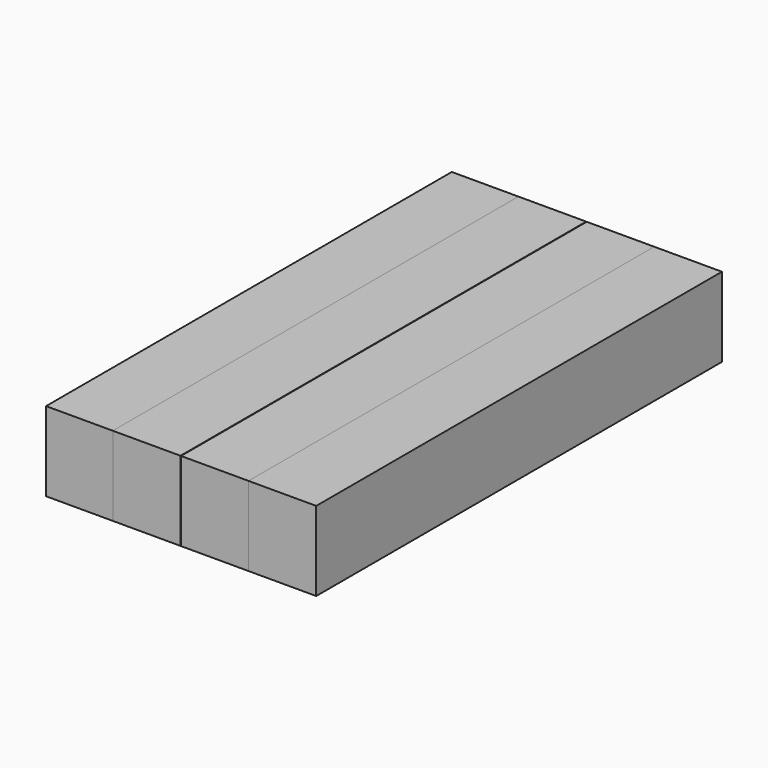
from build123d import *

# Parameters (mm, degrees)
F0_W     = 21.674522
F0_H     = 162.273735
F1_DEPTH = 25.4


with BuildPart() as f1:
    # F0 (on Top) → F1 (new body)
    with BuildSketch(Plane.XY):
        with Locations((-65.507356, -5.28644)):
            Rectangle(F0_W, F0_H)
    extrude(amount=F1_DEPTH)


with BuildPart() as f2_1:
    # F2: copy of F1
    add(f1.part.moved(Location((21.336, 0, 0))))


with BuildPart() as f3_1:
    # F3: copy of F2_1
    add(f2_1.part.moved(Location((21.844, 0, 0))))


with BuildPart() as f4_1:
    # F4: copy of F3_1
    add(f3_1.part.moved(Location((21.59, 0, 0))))


solid = Compound([f1.part, f2_1.part, f3_1.part, f4_1.part])
